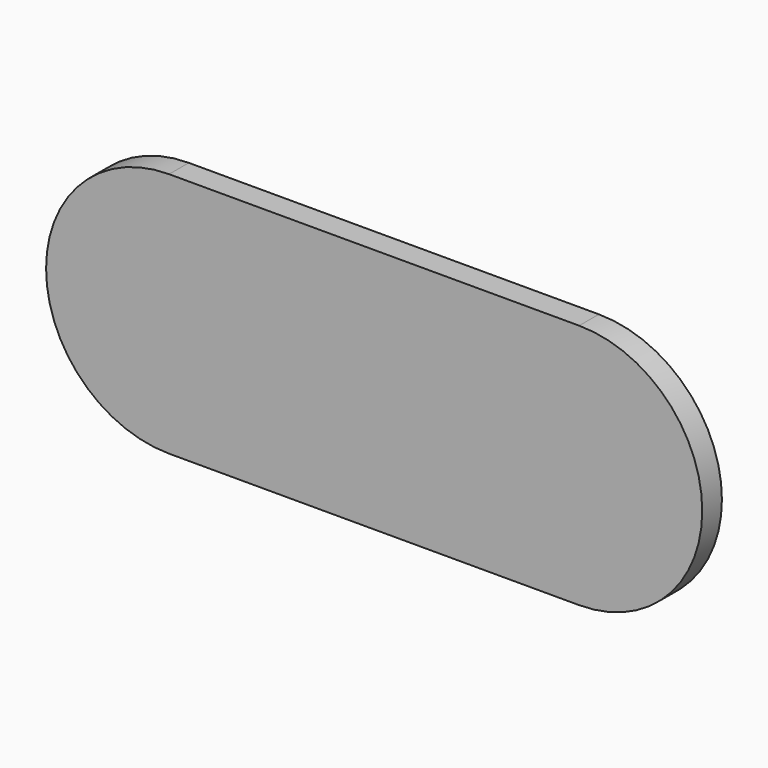
from build123d import *

# Parameters (mm, degrees)
F1_DEPTH = 3


with BuildPart() as f1:
    # F0 (on Front) → F1 (new body)
    with BuildSketch(Plane.XZ):
        with BuildLine():
            ThreePointArc((0, 30), (-15, 15), (0, 0))
            Line((0, 0), (50, 0))
            ThreePointArc((50, 0), (65, 15), (50, 30))
            Line((50, 30), (0, 30))
        make_face()
    extrude(amount=-F1_DEPTH)


solid = f1.part
